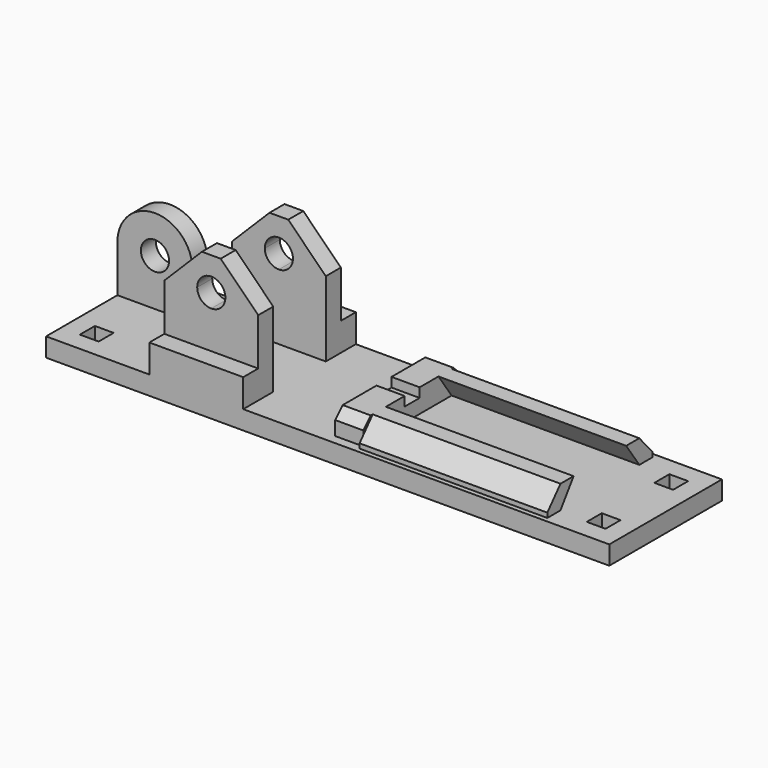
from build123d import *

# Parameters (mm, degrees)
F0_W      = 10
F0_H      = 2
F0_W_2    = 2
F1_DEPTH  = 2
F2_DEPTH  = 12
F4_DEPTH  = 25
F5_DEPTH  = 3
F7_R      = 1.5
F8_DEPTH  = 1
F9_SIZE   = 4
F10_SIZE  = 4
F11_DEPTH = 2.5
F13_DEPTH = 20
F14_SIZE  = 1
F15_W     = 3
F15_H     = 2
F16_DEPTH = 1


with BuildPart() as f1:
    # F0 (on Top) → F1 (new body)
    with BuildSketch(Plane.XY):
        with Locations((-14, -6.5)):
            Rectangle(F0_W, F0_H)
        with Locations((-14, 6.5)):
            Rectangle(F0_W, F0_H)
        Polygon((-30, 7.5), (-30, -7.5), (-19, -7.5), (-19, -5.5), (-19, -3.5), (-9, -3.5), (-9, -5.5), (-9, -7.5), (30, -7.5), (30, 7.5), (-9, 7.5), (-9, 5.5), (-9, 3.5), (-19, 3.5), (-19, 5.5), (-19, 7.5), align=None)
        with Locations((-27, -4.5)):
            Rectangle(F0_W_2, F0_H, mode=Mode.SUBTRACT)
        with Locations((27, -4.5)):
            Rectangle(F0_W_2, F0_H, mode=Mode.SUBTRACT)
        with Locations((-27, 4.5)):
            Rectangle(F0_W_2, F0_H, mode=Mode.SUBTRACT)
        Polygon((3, 3.5), (3, -3.5), (23, -3.5), (23, -7), (3, -7), (3, -6.5), (0, -6.5), (0, 6.5), (3, 6.5), (3, 7), (23, 7), (23, 3.5), align=None, mode=Mode.SUBTRACT)
        with Locations((27, 4.5)):
            Rectangle(F0_W_2, F0_H, mode=Mode.SUBTRACT)
        with Locations((-14, 4.5)):
            Rectangle(F0_W, F0_H)
        with Locations((-14, -4.5)):
            Rectangle(F0_W, F0_H)
        Polygon((3, 6.5), (3, 3.5), (23, 3.5), (23, 7), (3, 7), align=None)
        Polygon((23, -3.5), (3, -3.5), (3, -6.5), (3, -7), (23, -7), align=None)
        Polygon((3, -6.5), (3, -3.5), (3, 3.5), (3, 6.5), (0, 6.5), (0, -6.5), align=None)
    extrude(amount=-F1_DEPTH)

    # F0 (on Top) → F2 (join)
    with BuildSketch(Plane.XY):
        with Locations((-14, 4.5)):
            Rectangle(F0_W, F0_H)
        with Locations((-14, -4.5)):
            Rectangle(F0_W, F0_H)
    extrude(amount=F2_DEPTH)

    # F3 (on face) → F4 (cut)
    with BuildSketch(Plane(origin=(0, 5.5, 0), x_dir=(-1, 0, 0), z_dir=(0, 1, 0))):
        with BuildLine():
            Line((14, 7), (14, 10))
            ThreePointArc((14, 10), (12.5, 8.5), (14, 7))
        make_face()
        with BuildLine():
            ThreePointArc((14, 7), (15.0606601718, 7.4393398282), (15.5, 8.5))
            ThreePointArc((15.5, 8.5), (15.0606601718, 9.5606601718), (14, 10))
            Line((14, 10), (14, 7))
        make_face()
    extrude(amount=-F4_DEPTH, mode=Mode.SUBTRACT)

    # F0 (on Top) → F5 (join)
    with BuildSketch(Plane.XY):
        with Locations((-14, 6.5)):
            Rectangle(F0_W, F0_H)
        with Locations((-14, -6.5)):
            Rectangle(F0_W, F0_H)
    extrude(amount=F5_DEPTH)

    # F7 (on offset) → F8 (join, symmetric)
    with BuildSketch(Plane.XZ.offset(-3)):
        with BuildLine():
            ThreePointArc((-30, 5), (-26, 1), (-22, 5))
            ThreePointArc((-22, 5), (-26, 9), (-30, 5))
        make_face()
        with Locations((-26, 5)):
            Circle(F7_R, mode=Mode.SUBTRACT)
        with BuildLine():
            Line((-22, 0), (-22, 5))
            ThreePointArc((-22, 5), (-26, 1), (-30, 5))
            Line((-30, 5), (-30, 0))
            Line((-30, 0), (-22, 0))
        make_face()
    extrude(amount=F8_DEPTH, both=True)

    # F9
    f9_edges = [f1.edges().sort_by_distance(p)[0] for p in [
        (-9, 4.5, 12),
        (-19, 4.5, 12),
    ]]
    chamfer(f9_edges, length=F9_SIZE)

    # F10
    f10_edges = [f1.edges().sort_by_distance(p)[0] for p in [
        (-9, -4.5, 12),
        (-19, -4.5, 12),
    ]]
    chamfer(f10_edges, length=F10_SIZE)

    # F0 (on Top) → F11 (join)
    with BuildSketch(Plane.XY):
        Polygon((23, -3.5), (3, -3.5), (3, -6.5), (3, -7), (23, -7), align=None)
        Polygon((3, 6.5), (3, 3.5), (23, 3.5), (23, 7), (3, 7), align=None)
        Polygon((3, -6.5), (3, -3.5), (3, 3.5), (3, 6.5), (0, 6.5), (0, -6.5), align=None)
    extrude(amount=F11_DEPTH)

    # F12 (on face) → F13 (cut)
    with BuildSketch(Plane.YZ.offset(23)):
        Polygon((-3.5, 2.5), (-5.25, 0), (-3.5, 0), align=None)
        Polygon((-7, 0.5), (-5.25, 2.5), (-7, 2.5), align=None)
        Polygon((7, 0.5), (7, 2.5), (5.25, 2.5), align=None)
        Polygon((5.25, 0), (3.5, 2.5), (3.5, 0), align=None)
    extrude(amount=-F13_DEPTH, mode=Mode.SUBTRACT)

    # F14
    f14_edges = [f1.edges().sort_by_distance(p)[0] for p in [
        (1.5, 6.5, 2.5),
        (1.5, -6.5, 2.5),
    ]]
    chamfer(f14_edges, length=F14_SIZE)

    # F15 (on face) → F16 (cut)
    with BuildSketch(Plane.XY.offset(2.5)):
        with Locations((1.5, 0)):
            Rectangle(F15_W, F15_H)
    extrude(amount=-F16_DEPTH, mode=Mode.SUBTRACT)


solid = f1.part
